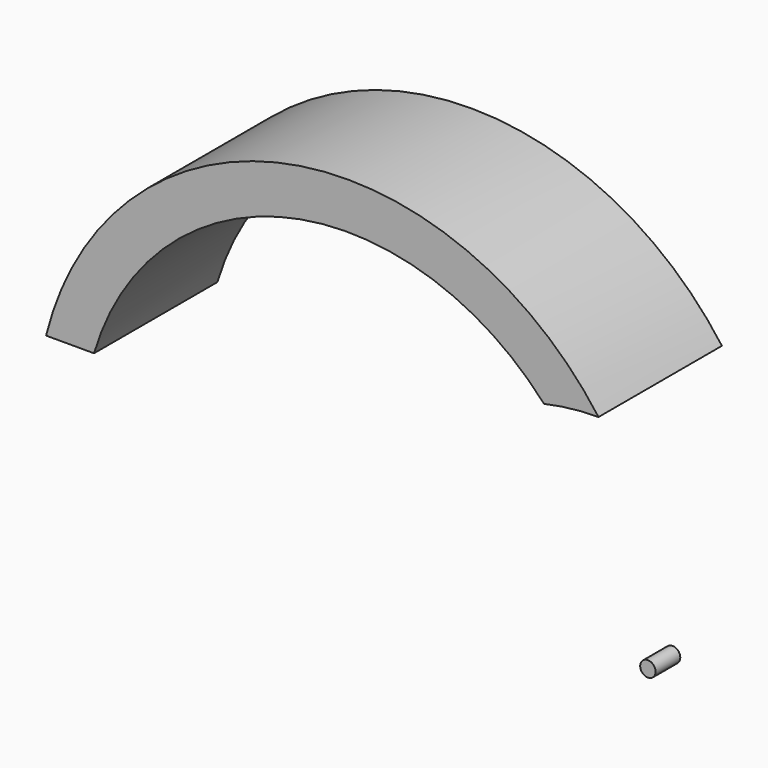
from build123d import *

# Parameters (mm, degrees)
F1_DEPTH = 25
F2_R     = 2.5
F3_DEPTH = 5


with BuildPart() as f1:
    # F0 (on Front) → F1 (new body, symmetric)
    with BuildSketch(Plane.XZ):
        with BuildLine():
            ThreePointArc((-17.683109, 78.0212), (-8.896741, 79.503761), (0, 80))
            ThreePointArc((0, 80), (-100.689764, 119.510492), (-179.096997, 45))
            Line((-179.096997, 45), (-163.554563, 45))
            ThreePointArc((-163.554563, 45), (-100.29726, 104.265126), (-17.683109, 78.0212))
        make_face()
    extrude(amount=F1_DEPTH, both=True)


with BuildPart() as f3:
    # F2 (on Front) → F3 (new body, symmetric)
    with BuildSketch(Plane.XZ):
        Circle(F2_R)
    extrude(amount=F3_DEPTH, both=True)


solid = Compound([f1.part, f3.part])
